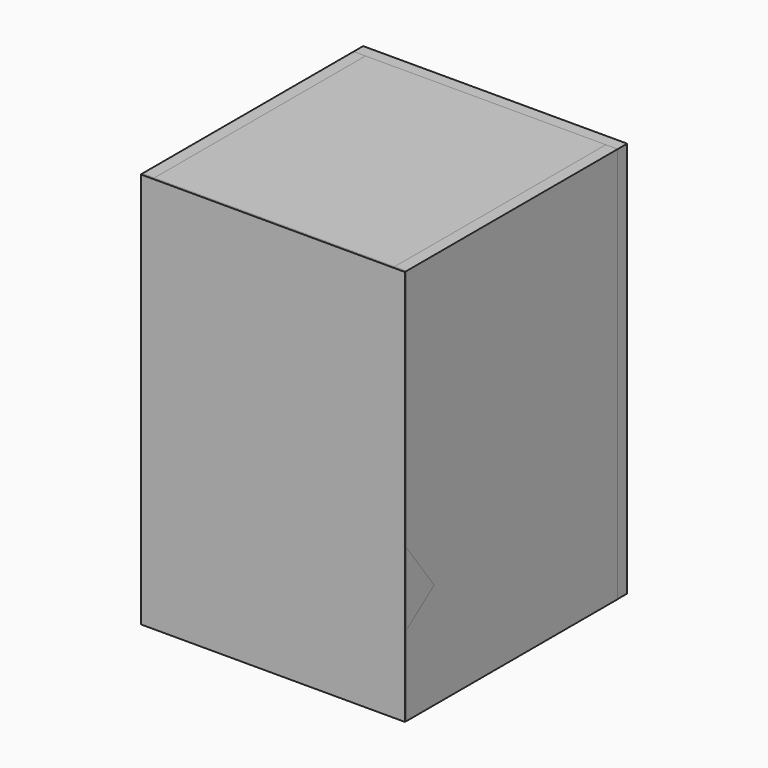
from build123d import *

# Parameters (mm, degrees)
F0_W      = 200
F0_H      = 300
F1_DEPTH  = 1.5
F2_W      = 9
F2_H      = 300
F3_DEPTH  = 200
F5_DEPTH  = 12
F7_DEPTH  = 182
F8_W      = 37.689343
F8_H      = 15.529495
F9_DEPTH  = 5
F10_W     = 200
F10_H     = 9
F11_DEPTH = 182
F12_W     = 200
F12_H     = 9
F13_DEPTH = 182
F14_W     = 200
F14_H     = 300.089557
F15_DEPTH = 9
F16_W     = 200
F16_H     = 300
F16_W_2   = 3.292107
F16_H_2   = 2.586657
F17_DEPTH = 9
F18_R     = 35.497254
F19_DEPTH = 9
F21_DEPTH = 12


with BuildPart() as f1:
    # F0 (on Front) → F1 (new body)
    with BuildSketch(Plane.XZ):
        with Locations((100, 133.523875)):
            Rectangle(F0_W, F0_H)
    extrude(amount=F1_DEPTH)


with BuildPart() as f3:
    # F2 (on face) → F3 (new body)
    with BuildSketch(Plane(origin=(0, 0, 0), x_dir=(-1, 0, 0), z_dir=(0, 1, 0))):
        with Locations((-4.5, 133.523875)):
            Rectangle(F2_W, F2_H)
    extrude(amount=F3_DEPTH)


with BuildPart() as f5:
    # F4 (on face) → F5 (new body)
    with BuildSketch(Plane.YZ.offset(9)):
        Polygon((25.697459, 63.690469), (0, 99.606201), (0, 45.510899), align=None)
    extrude(amount=F5_DEPTH)


with BuildPart() as f7:
    # F6 (on face) → F7 (new body)
    with BuildSketch(Plane.YZ.offset(9)):
        Polygon((0, 99.554576), (25.697459, 63.690469), (32.689184, 68.700201), (6.991726, 104.564308), align=None)
    extrude(amount=F7_DEPTH)


with BuildPart() as f9:
    # F8 (on face) → F9 (new body)
    with BuildSketch(Plane(origin=(0, 54.125926, 38.782472), x_dir=(-1, 0, 0), z_dir=(0, 0.812872, 0.582442))):
        with Locations((-98.194032, 44.569699)):
            Rectangle(F8_W, F8_H)
    extrude(amount=F9_DEPTH)


with BuildPart() as f11:
    # F10 (on face) → F11 (new body)
    with BuildSketch(Plane.YZ.offset(9)):
        with Locations((100, 279.023875)):
            Rectangle(F10_W, F10_H)
    extrude(amount=F11_DEPTH)


with BuildPart() as f13:
    # F12 (on face) → F13 (new body)
    with BuildSketch(Plane.YZ.offset(9)):
        with Locations((100, -11.976125)):
            Rectangle(F12_W, F12_H)
    extrude(amount=F13_DEPTH)


with BuildPart() as f15:
    # F14 (on face) → F15 (new body)
    with BuildSketch(Plane.YZ.offset(191)):
        with Locations((100, 133.479096)):
            Rectangle(F14_W, F14_H)
    extrude(amount=F15_DEPTH)


with BuildPart() as f17:
    # F16 (on face) → F17 (new body)
    with BuildSketch(Plane(origin=(0, 200, 0), x_dir=(-1, 0, 0), z_dir=(0, 1, 0))):
        with Locations((-100, 133.523875)):
            Rectangle(F16_W, F16_H)
        with Locations((6.722217, -5.011967)):
            Rectangle(F16_W_2, F16_H_2)
    extrude(amount=F17_DEPTH)

    # F18 (on face) → F19 (cut)
    with BuildSketch(Plane(origin=(0, 209, 0), x_dir=(-1, 0, 0), z_dir=(0, 1, 0))):
        with Locations((-102.406368, 48.614729)):
            Circle(F18_R)
    extrude(amount=-F19_DEPTH, mode=Mode.SUBTRACT)


with BuildPart() as f21:
    # F20 (on face) → F21 (new body)
    with BuildSketch(Plane.YZ.offset(200)):
        Polygon((26.206825, 63.468762), (0, 99.162795), (0, 44.227516), align=None)
    extrude(amount=-F21_DEPTH)


solid = Compound([f1.part, f3.part, f5.part, f7.part, f9.part, f11.part, f13.part, f15.part, f17.part, f21.part])
